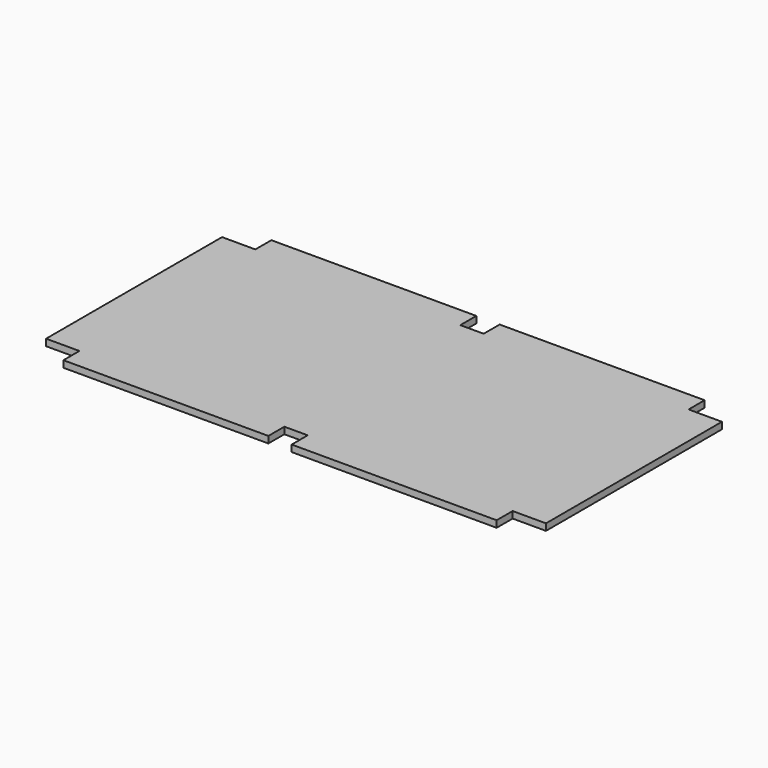
from build123d import *

# Parameters (mm, degrees)
F0_W     = 1905
F0_H     = 25.4
F1_DEPTH = 990.6
F2_W     = 127
F2_H     = 76.2
F2_W_2   = 88.9
F2_H_2   = 152.4
F3_DEPTH = 25.4


with BuildPart() as f1:
    # F0 (on Front) → F1 (new body)
    with BuildSketch(Plane.XZ):
        Rectangle(F0_W, F0_H)
    extrude(amount=F1_DEPTH)

    # F2 (on face) → F3 (cut)
    with BuildSketch(Plane.XY.offset(12.7)):
        with Locations((-889, -38.1)):
            Rectangle(F2_W, F2_H)
        with Locations((-889, -952.5)):
            Rectangle(F2_W, F2_H)
        with Locations((889, -952.5)):
            Rectangle(F2_W, F2_H)
        with Locations((889, -38.1)):
            Rectangle(F2_W, F2_H)
        Rectangle(F2_W_2, F2_H_2)
        with Locations((0, -990.6)):
            Rectangle(F2_W_2, F2_H_2)
    extrude(amount=-F3_DEPTH, mode=Mode.SUBTRACT)


solid = f1.part
